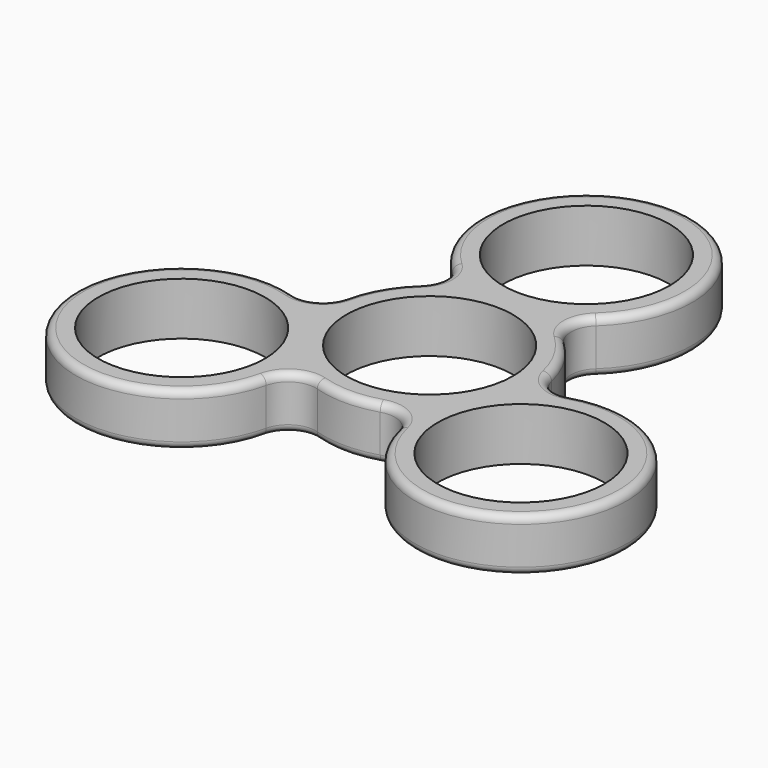
from build123d import *

# Parameters (mm, degrees)
F0_R     = 11.05
F1_DEPTH = 3.5
F2_R     = 1


with BuildPart() as f1:
    # F0 (on Top) → F1 (new body, symmetric)
    with BuildSketch(Plane.XY):
        with BuildLine():
            ThreePointArc((-9.529835, 15.676012), (-8.358194, 13), (-9.529835, 10.323988))
            ThreePointArc((-9.529835, 10.323988), (-12.167657, 7.025), (-13.705754, 3.091085))
            ThreePointArc((-13.705754, 3.091085), (-15.437427, 0.738408), (-18.340742, 0.415074))
            ThreePointArc((-18.340742, 0.415074), (-34.684317, -20.025), (-8.810907, -16.091085))
            ThreePointArc((-8.810907, -16.091085), (-7.079233, -13.738408), (-4.175918, -13.415074))
            ThreePointArc((-4.175918, -13.415074), (0, -14.05), (4.175918, -13.415074))
            ThreePointArc((4.175918, -13.415074), (7.079233, -13.738408), (8.810907, -16.091085))
            ThreePointArc((8.810907, -16.091085), (34.684317, -20.025), (18.340742, 0.415074))
            ThreePointArc((18.340742, 0.415074), (15.437427, 0.738408), (13.705754, 3.091085))
            ThreePointArc((13.705754, 3.091085), (12.167657, 7.025), (9.529835, 10.323988))
            ThreePointArc((9.529835, 10.323988), (8.358194, 13), (9.529835, 15.676012))
            ThreePointArc((9.529835, 15.676012), (0, 40.05), (-9.529835, 15.676012))
        make_face()
        with Locations((-22.51666, -13)):
            Circle(F0_R, mode=Mode.SUBTRACT)
        with Locations((22.51666, -13)):
            Circle(F0_R, mode=Mode.SUBTRACT)
        Circle(F0_R, mode=Mode.SUBTRACT)
        with Locations((0, 26)):
            Circle(F0_R, mode=Mode.SUBTRACT)
    extrude(amount=F1_DEPTH, both=True)

    # F2
    f2_edges = [f1.edges().sort_by_distance(p)[0] for p in [
        (-34.684317, -20.025, 3.5),
        (-34.684317, -20.025, -3.5),
    ]]
    fillet(f2_edges, radius=F2_R)


solid = f1.part
